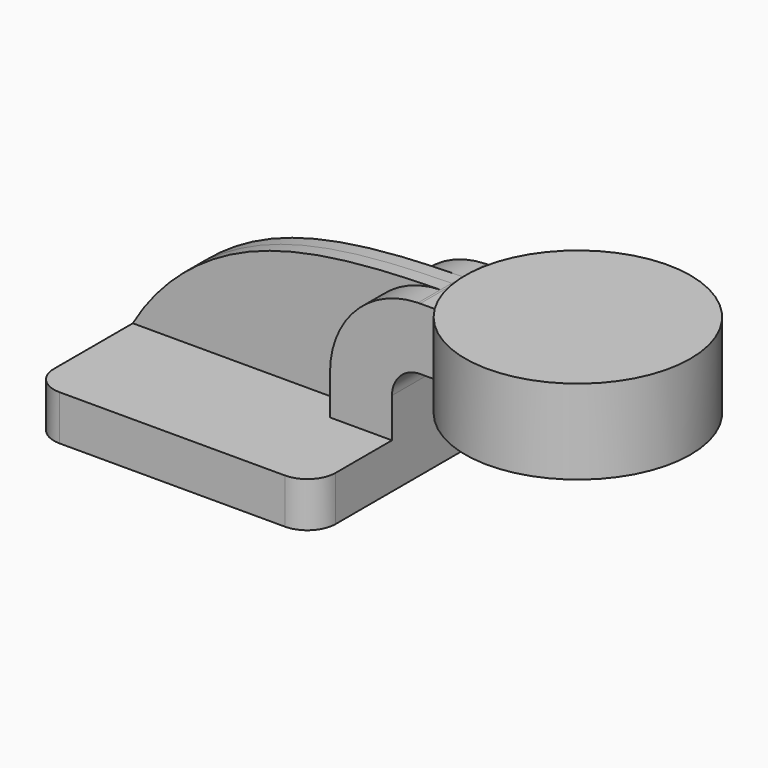
from build123d import *

# Parameters (mm, degrees)
F1_DEPTH = 25
F0_W     = 20
F0_H     = 11
F2_DEPTH = 7.5
F3_DEPTH = 2.5
F5_R     = 5


with BuildPart() as f1:
    # F0 (on Front) → F1 (new body, symmetric)
    with BuildSketch(Plane.XZ):
        Polygon((-25, -4), (25, -4), (25, 4), (14, 4), (-25, 4), align=None)
    extrude(amount=F1_DEPTH, both=True)

    # F0 (on Front) → F2 (join, symmetric)
    with BuildSketch(Plane.XZ):
        with BuildLine():
            Line((14, 4), (25, 4))
            Line((25, 4), (25, 11))
            ThreePointArc((25, 11), (26.4644660941, 14.5355339059), (30, 16))
            Line((30, 16), (32, 16))
            Line((32, 16), (32, 27))
            Line((32, 27), (30, 27))
            add(Edge.make_bspline(
                [(29.6159675373, 26.9953905569), (29.7437702017, 26.9970094957), (29.8717809107, 26.9985454717), (30, 27)],
                knots=[0.995223957, 0.995223957, 0.995223957, 0.995223957, 1, 1, 1, 1], degree=3))
            ThreePointArc((29.6159675373, 26.9953905569), (18.5513206132, 22.1771078682), (14, 11))
            Line((14, 11), (14, 4))
        make_face()
        with Locations((42, 21.5)):
            Rectangle(F0_W, F0_H)
    extrude(amount=F2_DEPTH, both=True)

    # F0 (on Front) → F3 (join, symmetric)
    with BuildSketch(Plane.XZ):
        with BuildLine():
            add(Edge.make_bspline(
                [(-25, 4), (-20.9363555228, 11.1345288275), (-6.6078681518, 24.5104887957), (15.0992011527, 26.8114995805), (29.6159675373, 26.9953905569)],
                knots=[0, 0, 0, 0, 0.4527258751, 0.995223957, 0.995223957, 0.995223957, 0.995223957], degree=3))
            Line((-25, 4), (14, 4))
            Line((14, 4), (14, 11))
            ThreePointArc((14, 11), (18.5513206132, 22.1771078682), (29.6159675373, 26.9953905569))
        make_face()
    extrude(amount=F3_DEPTH, both=True)

    # F0 (on Front) → F4 (revolve)
    with BuildSketch(Plane.XZ):
        Polygon((52, 27), (52, 16), (52, 14), (72, 14), (72, 29), (52, 29), align=None)
    revolve(axis=Axis((52, 0, 21.5), (0, 0, 1)))

    # F5
    f5_edges = [f1.edges().sort_by_distance(p)[0] for p in [
        (25, 25, 0),
        (-25, 25, 0),
        (-25, -25, 0),
        (25, -25, 0),
    ]]
    fillet(f5_edges, radius=F5_R)


solid = f1.part
